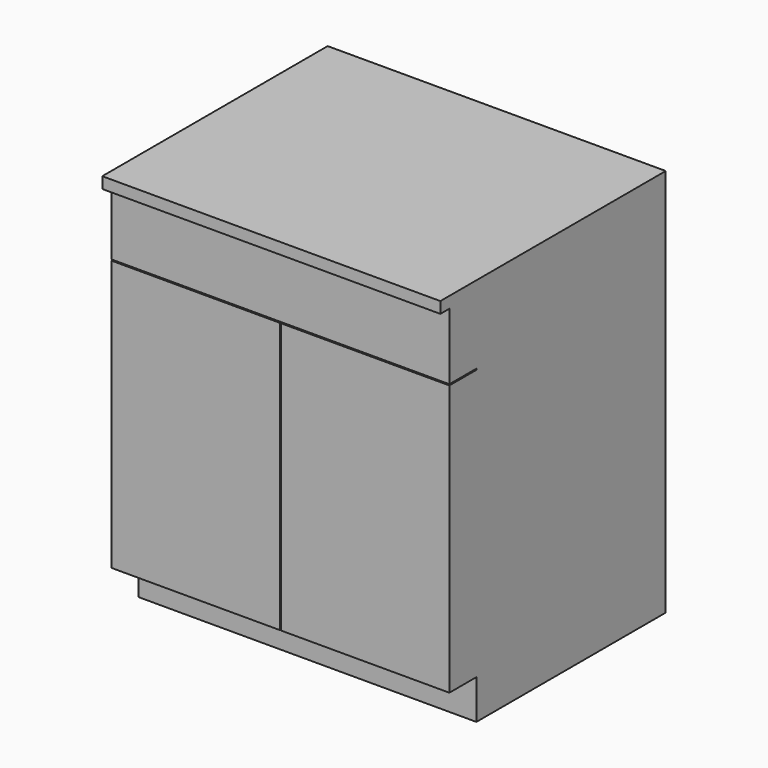
from build123d import *

# Parameters (mm, degrees)
F0_W     = 762
F0_H     = 609.6
F1_DEPTH = 876.3
F2_W     = 2.54
F2_H     = 609.6
F3_DEPTH = 76.2
F4_W     = 762
F4_H     = 25.4
F4_H_2   = 609.6
F5_DEPTH = 25.4
F6_W     = 508
F6_H     = 355.6
F7_DEPTH = 762


with BuildPart() as f1:
    # F0 (on Top) → F1 (new body)
    with BuildSketch(Plane.XY):
        Rectangle(F0_W, F0_H)
    extrude(amount=F1_DEPTH)

    # F2 (on face) → F3 (cut)
    with BuildSketch(Plane.XZ.offset(304.8)):
        Polygon((-381, 88.9), (-381, 0), (381, 0), (381, 88.9), (1.27, 88.9), (-1.27, 88.9), align=None)
        Polygon((-381, 701.04), (-381, 698.5), (-1.27, 698.5), (1.27, 698.5), (381, 698.5), (381, 701.04), align=None)
        with Locations((0, 393.7)):
            Rectangle(F2_W, F2_H)
    extrude(amount=-F3_DEPTH, mode=Mode.SUBTRACT)

    # F4 (on face) → F5 (join)
    with BuildSketch(Plane.XY.offset(876.3)):
        with Locations((0, -317.5)):
            Rectangle(F4_W, F4_H)
        Rectangle(F4_W, F4_H_2)
    extrude(amount=-F5_DEPTH)

    # F6 (on face) → F7 (cut)
    with BuildSketch(Plane(origin=(0, 0, 0), x_dir=(1, 0, 0), z_dir=(0, 0, -1))):
        Rectangle(F6_W, F6_H)
    extrude(amount=-F7_DEPTH, mode=Mode.SUBTRACT)


solid = f1.part
